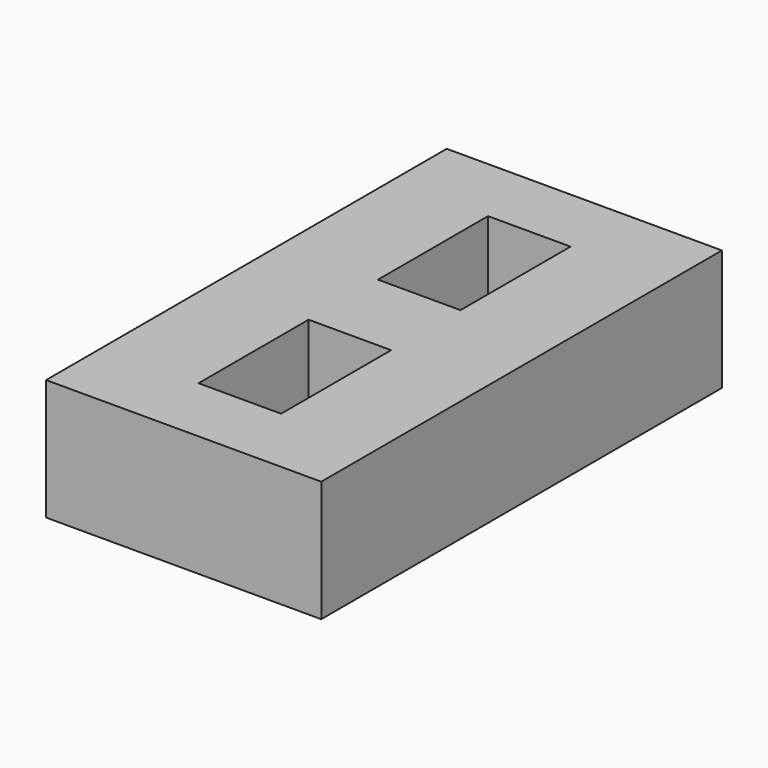
from build123d import *

# Parameters (mm, degrees)
F0_W     = 50
F0_H     = 50
F1_DEPTH = 5
F2_W     = 15
F2_H     = 25
F3_DEPTH = 169
F4_DEPTH = 17
F5_DEPTH = 41
F6_W     = 15
F6_H     = 25
F7_DEPTH = 141


with BuildPart() as f1:
    # F0 (on Top) → F1 (new body)
    with BuildSketch(Plane.XY):
        Rectangle(F0_W, F0_H)
    extrude(amount=F1_DEPTH)

    # F2 (on face) → F3 (cut)
    with BuildSketch(Plane.XY.offset(5)):
        Rectangle(F2_W, F2_H)
    extrude(amount=-F3_DEPTH, mode=Mode.SUBTRACT)

    # F4 (add): a face of the model
    f4_faces = [f1.faces().sort_by_distance(p)[0] for p in [
        (0, -24.2928932188, 5),
    ]]
    extrude(f4_faces, amount=F4_DEPTH)

    # F5 (add): a face of the model
    f5_faces = [f1.faces().sort_by_distance(p)[0] for p in [
        (0, -25, 11),
    ]]
    extrude(f5_faces, amount=F5_DEPTH)

    # F6 (on face) → F7 (cut)
    with BuildSketch(Plane.XY.offset(22)):
        with Locations((0, -40.7508090138)):
            Rectangle(F6_W, F6_H)
    extrude(amount=-F7_DEPTH, mode=Mode.SUBTRACT)


solid = f1.part
